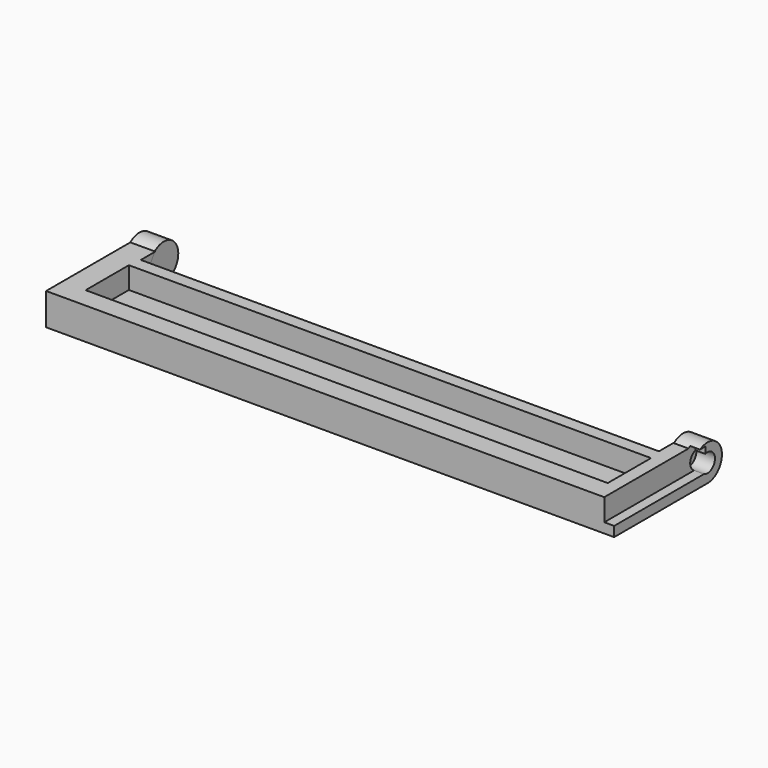
from build123d import *

# Parameters (mm, degrees)
SKETCH011_W     = 19.6
SKETCH011_H     = 4.05
PAD007_DEPTH    = 1.7
SKETCH005_R     = 3.1
PAD004_DEPTH    = 4.3
SKETCH004_R     = 3.1
PAD003_DEPTH    = 4.3
PAD_DEPTH       = 5.5
SKETCH001_W     = 89.8
SKETCH001_H     = 9.3
POCKET_DEPTH    = 3.75
SKETCH006_R     = 3.1
PAD005_DEPTH    = 4.2
SKETCH010_R     = 1.6
POCKET002_DEPTH = 3.2
SKETCH008_R     = 3.1
PAD006_DEPTH    = 4.2
SKETCH009_R     = 1.6
POCKET001_DEPTH = 3.2


with BuildPart() as body006:
    # Sketch011 → Pad007 (new body)
    with BuildSketch(Plane.YZ.offset(97.7)):
        with Locations((9.8, 3.725)):
            Rectangle(SKETCH011_W, SKETCH011_H)
    extrude(amount=-PAD007_DEPTH)


with BuildPart() as body002:
    # Sketch005 → Pad004 (new body)
    with BuildSketch(Plane.YZ.offset(93.4)):
        with Locations((20.07, 3.1)):
            Circle(SKETCH005_R)
    extrude(amount=PAD004_DEPTH)


with BuildPart() as fusion:
    # Sketch004 → Pad003 (new body)
    with BuildSketch(Plane.YZ):
        with Locations((20.07, 3.1)):
            Circle(SKETCH004_R)
    extrude(amount=PAD003_DEPTH)

    # Fusion: union Body002
    add(body002.part)


with BuildPart() as cut:
    # Sketch → Pad (new body)
    with BuildSketch(Plane.XY):
        Polygon((0, 0), (97.7, 0), (97.7, 20.1), (93.4, 20.1), (93.4, 15), (4.3, 15), (4.3, 20.1), (0, 20.1), align=None)
    extrude(amount=PAD_DEPTH)

    # Sketch001 (on Face10 of Pad) → Pocket (cut)
    with BuildSketch(Plane.XY.offset(5.5)):
        with Locations((48.9, 8.15)):
            Rectangle(SKETCH001_W, SKETCH001_H)
    extrude(amount=-POCKET_DEPTH, mode=Mode.SUBTRACT)

    # Cut: cut Fusion
    add(fusion.part, mode=Mode.SUBTRACT)


with BuildPart() as fusion001:
    # Sketch006 → Pad005 (new body)
    with BuildSketch(Plane.YZ):
        with Locations((20.07, 3.1)):
            Circle(SKETCH006_R)
    extrude(amount=PAD005_DEPTH)

    # Sketch010 (on Face2 of Pad005) → Pocket002 (cut)
    with BuildSketch(Plane(origin=(0, 0, 0), x_dir=(0, 1, 0), z_dir=(-1, 0, 0))):
        with Locations((20.07, -3.1)):
            Circle(SKETCH010_R)
    extrude(amount=-POCKET002_DEPTH, mode=Mode.SUBTRACT)

    # Fusion001: union Cut
    add(cut.part)


with BuildPart() as cut001:
    # Sketch008 → Pad006 (new body)
    with BuildSketch(Plane.YZ.offset(97.7)):
        with Locations((20.07, 3.1)):
            Circle(SKETCH008_R)
    extrude(amount=-PAD006_DEPTH)

    # Sketch009 (on Face2 of Pad006) → Pocket001 (cut)
    with BuildSketch(Plane.YZ.offset(97.7)):
        with Locations((20.07, 3.1)):
            Circle(SKETCH009_R)
    extrude(amount=-POCKET001_DEPTH, mode=Mode.SUBTRACT)

    # Fusion002: union Fusion001
    add(fusion001.part)

    # Cut001: cut Body006
    add(body006.part, mode=Mode.SUBTRACT)


solid = cut001.part
